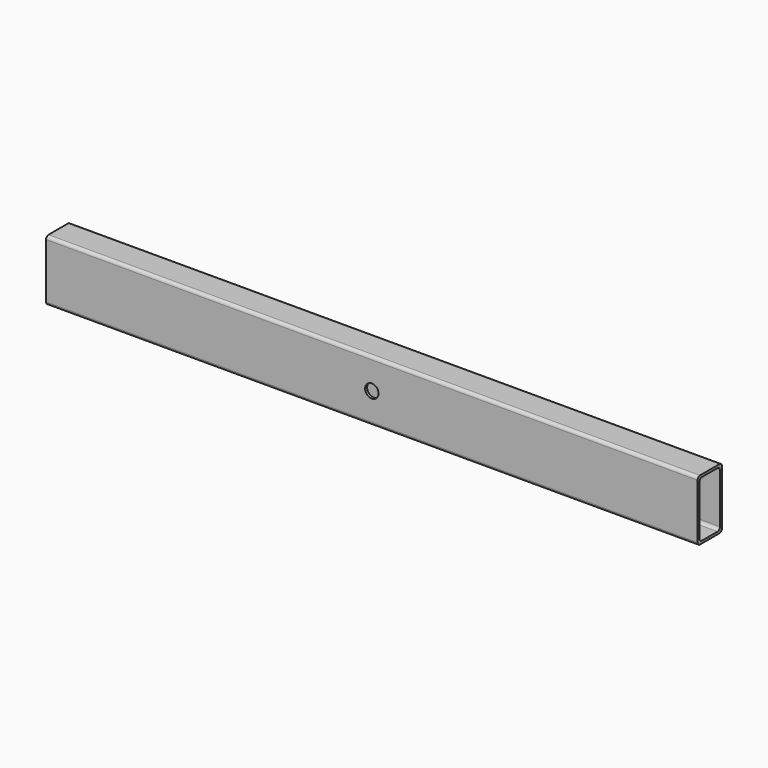
from build123d import *

# Parameters (mm, degrees)
F0_W     = 1070
F0_H     = 100
F1_DEPTH = 50
F2_T     = -4
F3_R     = 5
F5_D     = 22
F5_DEPTH = 4
F5_TIP   = 6.6094668093
F7_D     = 10
F7_DEPTH = 5
F7_TIP   = 3.0043030951


with BuildPart() as f1:
    # F0 (on Front) → F1 (new body)
    with BuildSketch(Plane.XZ):
        Rectangle(F0_W, F0_H)
    extrude(amount=F1_DEPTH)

    # F2
    f2_openings = [f1.faces().sort_by_distance(p)[0] for p in [
        (-535, -25, 0),
        (535, -25, 0),
    ]]
    offset(amount=F2_T, openings=f2_openings)

    # F3
    f3_edges = [f1.edges().sort_by_distance(p)[0] for p in [
        (0, -46, 46),
        (0, -4, 46),
        (0, -46, -46),
        (0, -4, -46),
        (0, -50, -50),
        (0, -50, 50),
        (0, 0, 50),
        (0, 0, -50),
    ]]
    fillet(f3_edges, radius=F3_R)

    # F5
    with Locations(Plane.XZ.offset(50)):
        with Locations((0, 0)):
            Hole(F5_D / 2, depth=F5_DEPTH)
            with Locations((0, 0, -(F5_DEPTH + F5_TIP / 2))):  # 118° drill point
                Cone(0, F5_D / 2, F5_TIP, mode=Mode.SUBTRACT)

    # F7
    with Locations(Plane(origin=(0, 0, 0), x_dir=(-1, 0, 0), z_dir=(0, 1, 0))):
        with Locations((238.0880117416, 0), (-238.088, 0)):
            Hole(F7_D / 2, depth=F7_DEPTH)
            with Locations((0, 0, -(F7_DEPTH + F7_TIP / 2))):  # 118° drill point
                Cone(0, F7_D / 2, F7_TIP, mode=Mode.SUBTRACT)


solid = f1.part
